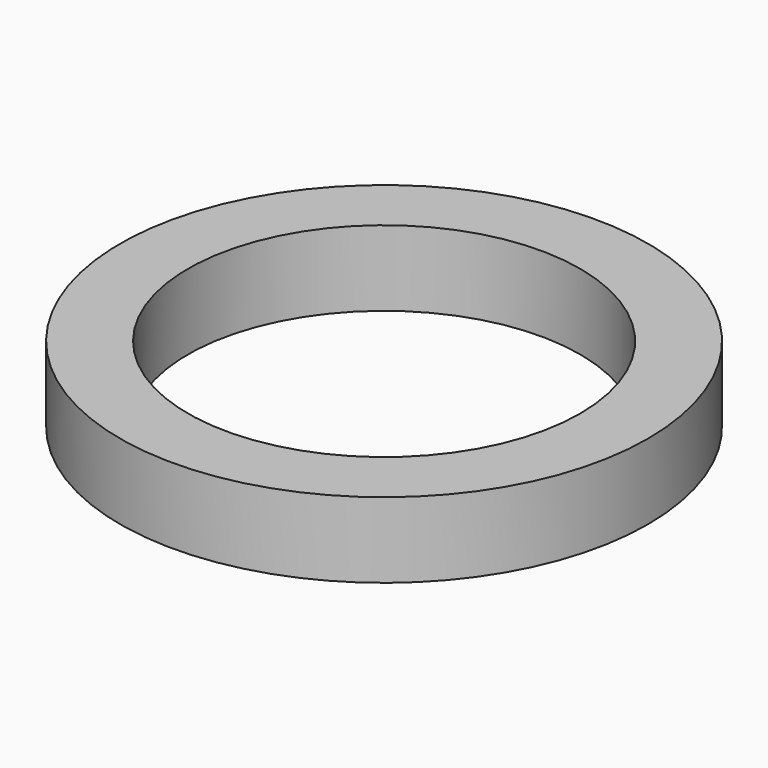
from build123d import *

# Parameters (mm, degrees)
CYLINDER045_R     = 2.6
CYLINDER045_DEPTH = 1
CYLINDER046_R     = 3.5
CYLINDER046_DEPTH = 1


with BuildPart() as cylinder045:
    # Cylinder045 → Cylinder045 (new body)
    with BuildSketch(Plane.XY):
        Circle(CYLINDER045_R)
    extrude(amount=CYLINDER045_DEPTH)


with BuildPart() as washer:
    # Cylinder046 → Cylinder046 (new body)
    with BuildSketch(Plane.XY):
        Circle(CYLINDER046_R)
    extrude(amount=CYLINDER046_DEPTH)

    # Cut022020016032007036030: cut Cylinder045
    add(cylinder045.part, mode=Mode.SUBTRACT)


with BuildPart() as washer_1:
    # Cut022020016032007036030 placement: moved
    add(washer.part.moved(Location((0, 0, 28))))


solid = washer_1.part
